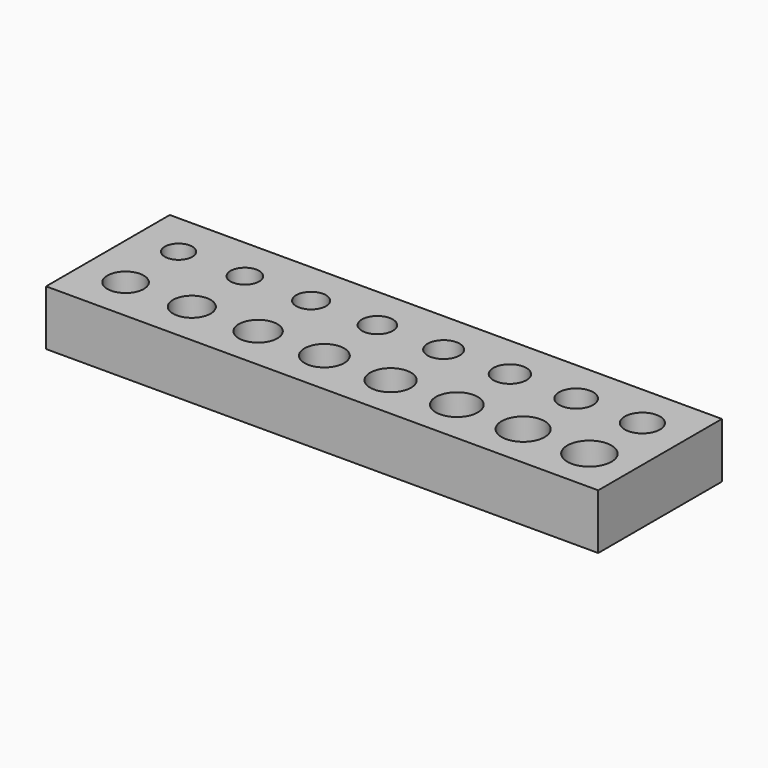
from build123d import *

# Parameters (mm, degrees)
F0_W     = 50
F0_H     = 14
F0_R     = 1.65
F0_R_2   = 1.7
F0_R_3   = 1.75
F0_R_4   = 1.8
F0_R_5   = 1.85
F0_R_6   = 1.9
F0_R_7   = 1.95
F0_R_8   = 2
F0_R_9   = 1.25
F0_R_10  = 1.3
F0_R_11  = 1.35
F0_R_12  = 1.4
F0_R_13  = 1.45
F0_R_14  = 1.5
F0_R_15  = 1.55
F0_R_16  = 1.6
F1_DEPTH = 5


with BuildPart() as f1:
    # F0 (on Top) → F1 (new body)
    with BuildSketch(Plane.XY):
        Rectangle(F0_W, F0_H)
        with Locations((-21, -3)):
            Circle(F0_R, mode=Mode.SUBTRACT)
        with Locations((-15, -3)):
            Circle(F0_R_2, mode=Mode.SUBTRACT)
        with Locations((-9, -3)):
            Circle(F0_R_3, mode=Mode.SUBTRACT)
        with Locations((-3, -3)):
            Circle(F0_R_4, mode=Mode.SUBTRACT)
        with Locations((3, -3)):
            Circle(F0_R_5, mode=Mode.SUBTRACT)
        with Locations((9, -3)):
            Circle(F0_R_6, mode=Mode.SUBTRACT)
        with Locations((15, -3)):
            Circle(F0_R_7, mode=Mode.SUBTRACT)
        with Locations((21, -3)):
            Circle(F0_R_8, mode=Mode.SUBTRACT)
        with Locations((-21, 3)):
            Circle(F0_R_9, mode=Mode.SUBTRACT)
        with Locations((-15, 3)):
            Circle(F0_R_10, mode=Mode.SUBTRACT)
        with Locations((-9, 3)):
            Circle(F0_R_11, mode=Mode.SUBTRACT)
        with Locations((-3, 3)):
            Circle(F0_R_12, mode=Mode.SUBTRACT)
        with Locations((3, 3)):
            Circle(F0_R_13, mode=Mode.SUBTRACT)
        with Locations((9, 3)):
            Circle(F0_R_14, mode=Mode.SUBTRACT)
        with Locations((15, 3)):
            Circle(F0_R_15, mode=Mode.SUBTRACT)
        with Locations((21, 3)):
            Circle(F0_R_16, mode=Mode.SUBTRACT)
    extrude(amount=-F1_DEPTH)


solid = f1.part
